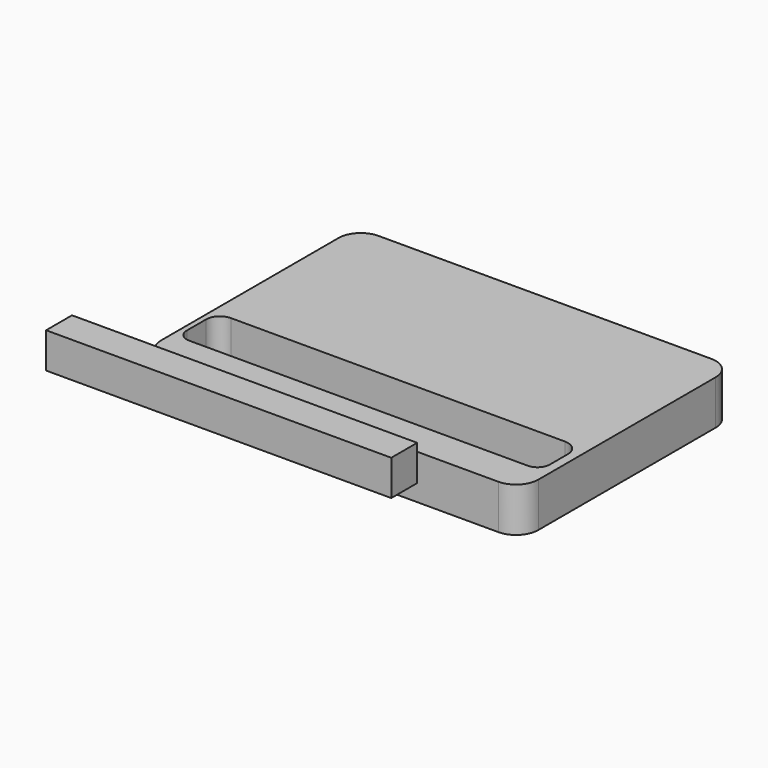
from build123d import *

# Parameters (mm, degrees)
F1_DEPTH = 10
F2_W     = 7.3
F2_H     = 8
F3_DEPTH = 77.8


with BuildPart() as f1:
    # F0 (on Top) → F1 (new body)
    with BuildSketch(Plane.XY):
        with BuildLine():
            ThreePointArc((0, 5), (1.464466, 1.464466), (5, 0))
            Line((5, 0), (80, 0))
            ThreePointArc((80, 0), (83.535534, 1.464466), (85, 5))
            Line((85, 5), (85, 55))
            ThreePointArc((85, 55), (83.535534, 58.535534), (80, 60))
            Line((80, 60), (5, 60))
            ThreePointArc((5, 60), (1.464466, 58.535534), (0, 55))
            Line((0, 55), (0, 5))
        make_face()
        with BuildLine():
            Line((80.232261, 8), (3.947038, 8))
            ThreePointArc((3.947038, 8), (1.993973, 8.808986), (1.184987, 10.762051))
            Line((1.184987, 10.762051), (1.184987, 16.211286))
            ThreePointArc((1.184987, 16.211286), (2.089651, 18.395337), (4.273701, 19.3))
            Line((4.273701, 19.3), (79.558284, 19.3))
            ThreePointArc((79.558284, 19.3), (81.981329, 18.296342), (82.984987, 15.873297))
            Line((82.984987, 15.873297), (82.984987, 10.752727))
            ThreePointArc((82.984987, 10.752727), (82.178733, 8.806255), (80.232261, 8))
        make_face(mode=Mode.SUBTRACT)
    extrude(amount=F1_DEPTH)


with BuildPart() as f3:
    # F2 (on Right) → F3 (new body)
    with BuildSketch(Plane.YZ):
        with Locations((-23.767203, 21.185863)):
            Rectangle(F2_W, F2_H)
    extrude(amount=F3_DEPTH)


solid = Compound([f1.part, f3.part])
